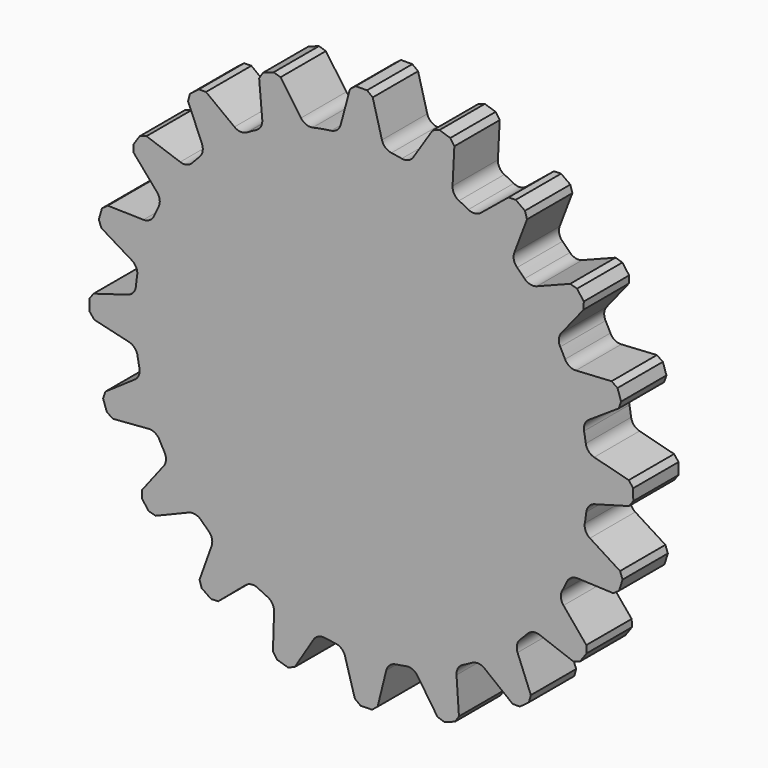
from build123d import *

# Parameters (mm, degrees)
F1_DEPTH = 25
F2_SIZE  = 2
F3_R     = 5


with BuildPart() as f1:
    # F0 (on Front) → F1 (new body)
    with BuildSketch(Plane.XZ):
        with BuildLine():
            ThreePointArc((99.589151, -9.055443), (99.897235, -4.532379), (100, 0))
            ThreePointArc((100, 0), (99.851387, 5.449826), (99.405988, 10.883453))
            ThreePointArc((99.405988, 10.883453), (98.63613, 16.459459), (97.553749, 21.983314))
            ThreePointArc((97.553749, 21.983314), (94.875997, 31.599767), (91.252838, 40.901339))
            ThreePointArc((91.252838, 40.901339), (88.806889, 45.971039), (86.07956, 50.895082))
            ThreePointArc((86.07956, 50.895082), (80.576511, 59.223525), (74.270544, 66.961827))
            ThreePointArc((74.270544, 66.961827), (70.385161, 71.034703), (66.276766, 74.88251))
            ThreePointArc((66.276766, 74.88251), (58.480866, 81.117127), (50.102224, 86.543441))
            ThreePointArc((50.102224, 86.543441), (45.153336, 89.225424), (40.061382, 91.6247))
            ThreePointArc((40.061382, 91.6247), (30.72692, 95.162263), (21.086276, 97.751568))
            ThreePointArc((21.086276, 97.751568), (15.552711, 98.783162), (9.969869, 99.501767))
            ThreePointArc((9.969869, 99.501767), (0, 100), (-9.969869, 99.501767))
            ThreePointArc((-9.969869, 99.501767), (-17.364818, 98.480775), (-24.662997, 96.910973))
            ThreePointArc((-24.662997, 96.910973), (-34.202014, 93.969262), (-43.400221, 90.091181))
            ThreePointArc((-43.400221, 90.091181), (-48.4006, 87.506468), (-53.247623, 84.644496))
            ThreePointArc((-53.247623, 84.644496), (-61.421271, 78.914051), (-68.982878, 72.397255))
            ThreePointArc((-68.982878, 72.397255), (-72.947149, 68.401122), (-76.68029, 64.188263))
            ThreePointArc((-76.68029, 64.188263), (-82.697729, 56.223532), (-87.891115, 47.698553))
            ThreePointArc((-87.891115, 47.698553), (-90.435716, 42.677644), (-92.693776, 37.521512))
            ThreePointArc((-92.693776, 37.521512), (-95.972791, 28.09312), (-98.29547, 18.38479))
            ThreePointArc((-98.29547, 18.38479), (-99.1742, 12.824901), (-99.7387, 7.224377))
            ThreePointArc((-99.7387, 7.224377), (-99.962031, -2.755434), (-99.189274, -12.707789))
            ThreePointArc((-99.189274, -12.707789), (-98.31711, -18.268711), (-97.133434, -23.77175))
            ThreePointArc((-97.133434, -23.77175), (-94.279471, -33.337387), (-90.486046, -42.570829))
            ThreePointArc((-90.486046, -42.570829), (-87.947375, -47.594739), (-85.130047, -52.467848))
            ThreePointArc((-85.130047, -52.467848), (-79.474926, -60.69379), (-73.027865, -68.31494))
            ThreePointArc((-73.027865, -68.31494), (-69.068315, -72.315751), (-64.889926, -76.087434))
            ThreePointArc((-64.889926, -76.087434), (-56.980806, -82.177782), (-48.503892, -87.449257))
            ThreePointArc((-48.503892, -87.449257), (-43.506569, -90.039872), (-38.371397, -92.3452))
            ThreePointArc((-38.371397, -92.3452), (-28.973523, -95.710684), (-19.286938, -98.122444))
            ThreePointArc((-19.286938, -98.122444), (-13.735356, -99.052208), (-8.140254, -99.668131))
            ThreePointArc((-8.140254, -99.668131), (1.837085, -99.983124), (11.796119, -99.301821))
            ThreePointArc((11.796119, -99.301821), (17.364818, -98.480775), (22.878497, -97.347698))
            ThreePointArc((22.878497, -97.347698), (32.469947, -94.581724), (41.737845, -90.873276))
            ThreePointArc((41.737845, -90.873276), (46.784863, -88.380861), (51.683646, -85.608415))
            ThreePointArc((51.683646, -85.608415), (59.961187, -80.029095), (67.641237, -73.652312))
            ThreePointArc((67.641237, -73.652312), (71.678251, -69.72968), (75.488157, -65.586113))
            ThreePointArc((75.488157, -65.586113), (81.650899, -57.733272), (87.000019, -49.305138))
            ThreePointArc((87.000019, -49.305138), (89.63643, -44.331823), (91.988831, -39.218044))
            ThreePointArc((91.988831, -39.218044), (95.4405, -29.851481), (97.941138, -20.187459))
            ThreePointArc((97.941138, -20.187459), (98.921859, -14.644651), (99.589151, -9.055443))
        make_face()
        with BuildLine():
            ThreePointArc((99.405988, 10.883453), (99.851387, 5.449826), (100, 0))
            ThreePointArc((100, 0), (99.897235, -4.532379), (99.589151, -9.055443))
            Line((99.589151, -9.055443), (119.951872, -3.398288))
            Line((119.951872, -3.398288), (119.8692, 5.601333))
            Line((119.8692, 5.601333), (99.405988, 10.883453))
        make_face()
        with BuildLine():
            ThreePointArc((91.252838, 40.901339), (94.875997, 31.599767), (97.553749, 21.983314))
            Line((97.553749, 21.983314), (115.193106, 33.623629))
            Line((115.193106, 33.623629), (112.349127, 42.162468))
            Line((112.349127, 42.162468), (91.252838, 40.901339))
        make_face()
        with BuildLine():
            Line((115.791361, -31.501759), (97.941138, -20.187459))
            ThreePointArc((97.941138, -20.187459), (95.4405, -29.851481), (91.988831, -39.218044))
            Line((91.988831, -39.218044), (113.104727, -40.091404))
            Line((113.104727, -40.091404), (115.791361, -31.501759))
        make_face()
        with BuildLine():
            ThreePointArc((74.270544, 66.961827), (80.576511, 59.223525), (86.07956, 50.895082))
            Line((86.07956, 50.895082), (99.288861, 67.3923))
            Line((99.288861, 67.3923), (93.958744, 74.644186))
            Line((93.958744, 74.644186), (74.270544, 66.961827))
        make_face()
        with BuildLine():
            Line((100.510159, -65.556906), (87.000019, -49.305138))
            ThreePointArc((87.000019, -49.305138), (81.650899, -57.733272), (75.488157, -65.586113))
            Line((75.488157, -65.586113), (95.314165, -72.905487))
            Line((95.314165, -72.905487), (100.510159, -65.556906))
        make_face()
        with BuildLine():
            ThreePointArc((50.102224, 86.543441), (58.480866, 81.117127), (66.276766, 74.88251))
            Line((66.276766, 74.88251), (73.777949, 94.640447))
            Line((73.777949, 94.640447), (66.477408, 99.903725))
            Line((66.477408, 99.903725), (50.102224, 86.543441))
        make_face()
        with BuildLine():
            Line((75.504124, -93.269112), (67.641237, -73.652312))
            ThreePointArc((67.641237, -73.652312), (59.961187, -80.029095), (51.683646, -85.608415))
            Line((51.683646, -85.608415), (68.301506, -98.665619))
            Line((68.301506, -98.665619), (75.504124, -93.269112))
        make_face()
        with BuildLine():
            ThreePointArc((21.086276, 97.751568), (30.72692, 95.162263), (40.061382, 91.6247))
            Line((40.061382, 91.6247), (41.128671, 112.731683))
            Line((41.128671, 112.731683), (32.564068, 115.497106))
            Line((32.564068, 115.497106), (21.086276, 97.751568))
        make_face()
        with BuildLine():
            Line((43.192708, -111.95709), (41.737845, -90.873276))
            ThreePointArc((41.737845, -90.873276), (32.469947, -94.581724), (22.878497, -97.347698))
            Line((22.878497, -97.347698), (34.680353, -114.879385))
            Line((34.680353, -114.879385), (43.192708, -111.95709))
        make_face()
        with BuildLine():
            ThreePointArc((-9.969869, 99.501767), (0, 100), (9.969869, 99.501767))
            Line((9.969869, 99.501767), (4.5, 119.915595))
            Line((4.5, 119.915595), (-4.5, 119.915595))
            Line((-4.5, 119.915595), (-9.969869, 99.501767))
        make_face()
        with BuildLine():
            Line((6.702192, -119.81269), (11.796119, -99.301821))
            ThreePointArc((11.796119, -99.301821), (1.837085, -99.983124), (-8.140254, -99.668131))
            Line((-8.140254, -99.668131), (-2.296289, -119.978027))
            Line((-2.296289, -119.978027), (6.702192, -119.81269))
        make_face()
        with BuildLine():
            ThreePointArc((-43.400221, 90.091181), (-34.202014, 93.969262), (-24.662997, 96.910973))
            Line((-24.662997, 96.910973), (-36.784932, 114.222891))
            Line((-36.784932, 114.222891), (-45.242166, 111.144709))
            Line((-45.242166, 111.144709), (-43.400221, 90.091181))
        make_face()
        with BuildLine():
            Line((-30.436792, -116.075845), (-19.286938, -98.122444))
            ThreePointArc((-19.286938, -98.122444), (-28.973523, -95.710684), (-38.371397, -92.3452))
            Line((-38.371397, -92.3452), (-39.050753, -113.468228))
            Line((-39.050753, -113.468228), (-30.436792, -116.075845))
        make_face()
        with BuildLine():
            ThreePointArc((-68.982878, 72.397255), (-61.421271, 78.914051), (-53.247623, 84.644496))
            Line((-53.247623, 84.644496), (-70.102551, 97.394211))
            Line((-70.102551, 97.394211), (-77.204815, 91.866297))
            Line((-77.204815, 91.866297), (-68.982878, 72.397255))
        make_face()
        with BuildLine():
            Line((-64.630872, -101.108112), (-48.503892, -87.449257))
            ThreePointArc((-48.503892, -87.449257), (-56.980806, -82.177782), (-64.889926, -76.087434))
            Line((-64.889926, -76.087434), (-72.026873, -95.97984))
            Line((-72.026873, -95.97984), (-64.630872, -101.108112))
        make_face()
        with BuildLine():
            ThreePointArc((-87.891115, 47.698553), (-82.697729, 56.223532), (-76.68029, 64.188263))
            Line((-76.68029, 64.188263), (-96.637416, 71.142181))
            Line((-96.637416, 71.142181), (-101.697534, 63.699385))
            Line((-101.697534, 63.699385), (-87.891115, 47.698553))
        make_face()
        with BuildLine():
            Line((-92.57161, -76.357691), (-73.027865, -68.31494))
            ThreePointArc((-73.027865, -68.31494), (-79.474926, -60.69379), (-85.130047, -52.467848))
            Line((-85.130047, -52.467848), (-98.034051, -69.204948))
            Line((-98.034051, -69.204948), (-92.57161, -76.357691))
        make_face()
        with BuildLine():
            ThreePointArc((-98.29547, 18.38479), (-95.972791, 28.09312), (-92.693776, 37.521512))
            Line((-92.693776, 37.521512), (-113.822153, 38.006808))
            Line((-113.822153, 38.006808), (-116.350534, 29.369256))
            Line((-116.350534, 29.369256), (-98.29547, 18.38479))
        make_face()
        with BuildLine():
            Line((-111.555606, -44.219302), (-90.486046, -42.570829))
            ThreePointArc((-90.486046, -42.570829), (-94.279471, -33.337387), (-97.133434, -23.77175))
            Line((-97.133434, -23.77175), (-114.555971, -35.73415))
            Line((-114.555971, -35.73415), (-111.555606, -44.219302))
        make_face()
        with BuildLine():
            ThreePointArc((-99.189274, -12.707789), (-99.962031, -2.755434), (-99.7387, 7.224377))
            Line((-99.7387, 7.224377), (-119.994059, 1.194096))
            Line((-119.994059, 1.194096), (-119.74607, -7.802487))
            Line((-119.74607, -7.802487), (-99.189274, -12.707789))
        make_face()
    extrude(amount=F1_DEPTH)

    # F2
    f2_edges = [f1.edges().sort_by_distance(p)[0] for p in [
        (4.5, -12.5, 119.915595),
        (-4.5, -12.5, 119.915595),
        (32.564068, -12.5, 115.497106),
        (41.128671, -12.5, 112.731683),
        (66.477408, -12.5, 99.903725),
        (73.777949, -12.5, 94.640447),
        (99.288861, -12.5, 67.3923),
        (93.958744, -12.5, 74.644186),
        (112.349127, -12.5, 42.162468),
        (115.193106, -12.5, 33.623629),
        (119.8692, -12.5, 5.601333),
        (119.951872, -12.5, -3.398288),
        (115.791361, -12.5, -31.501759),
        (113.104727, -12.5, -40.091404),
        (100.510159, -12.5, -65.556906),
        (95.314165, -12.5, -72.905487),
        (75.504124, -12.5, -93.269112),
        (68.301506, -12.5, -98.665619),
        (43.192708, -12.5, -111.95709),
        (34.680353, -12.5, -114.879385),
        (6.702192, -12.5, -119.81269),
        (-2.296289, -12.5, -119.978027),
        (-30.436792, -12.5, -116.075845),
        (-39.050753, -12.5, -113.468228),
        (-64.630872, -12.5, -101.108112),
        (-72.026873, -12.5, -95.97984),
        (-92.57161, -12.5, -76.357691),
        (-98.034051, -12.5, -69.204948),
        (-111.555606, -12.5, -44.219302),
        (-114.555971, -12.5, -35.73415),
        (-119.74607, -12.5, -7.802487),
        (-119.994059, -12.5, 1.194096),
        (-116.350534, -12.5, 29.369256),
        (-113.822153, -12.5, 38.006808),
        (-101.697534, -12.5, 63.699385),
        (-96.637416, -12.5, 71.142181),
        (-77.204815, -12.5, 91.866297),
        (-70.102551, -12.5, 97.394211),
        (-45.242166, -12.5, 111.144709),
        (-36.784932, -12.5, 114.222891),
    ]]
    chamfer(f2_edges, length=F2_SIZE)

    # F3
    f3_edges = [f1.edges().sort_by_distance(p)[0] for p in [
        (-53.247623, -12.5, 84.644496),
        (-43.400221, -12.5, 90.091181),
        (-24.662997, -12.5, 96.910973),
        (-9.969869, -12.5, 99.501767),
        (9.969869, -12.5, 99.501767),
        (21.086276, -12.5, 97.751568),
        (40.061382, -12.5, 91.6247),
        (50.102224, -12.5, 86.543441),
        (66.276766, -12.5, 74.88251),
        (74.270544, -12.5, 66.961827),
        (86.07956, -12.5, 50.895082),
        (91.252838, -12.5, 40.901339),
        (97.553749, -12.5, 21.983314),
        (99.405988, -12.5, 10.883453),
        (99.589151, -12.5, -9.055443),
        (97.941138, -12.5, -20.187459),
        (91.988831, -12.5, -39.218044),
        (87.000019, -12.5, -49.305138),
        (75.488157, -12.5, -65.586113),
        (67.641237, -12.5, -73.652312),
        (51.683646, -12.5, -85.608415),
        (41.737845, -12.5, -90.873276),
        (22.878497, -12.5, -97.347698),
        (11.796119, -12.5, -99.301821),
        (-8.140254, -12.5, -99.668131),
        (-19.286938, -12.5, -98.122444),
        (-38.371397, -12.5, -92.3452),
        (-48.503892, -12.5, -87.449257),
        (-64.889926, -12.5, -76.087434),
        (-73.027865, -12.5, -68.31494),
        (-85.130047, -12.5, -52.467848),
        (-90.486046, -12.5, -42.570829),
        (-97.133434, -12.5, -23.77175),
        (-99.189274, -12.5, -12.707789),
        (-99.7387, -12.5, 7.224377),
        (-98.29547, -12.5, 18.38479),
        (-92.693776, -12.5, 37.521512),
        (-87.891115, -12.5, 47.698553),
        (-76.68029, -12.5, 64.188263),
        (-68.982878, -12.5, 72.397255),
    ]]
    fillet(f3_edges, radius=F3_R)


solid = f1.part
